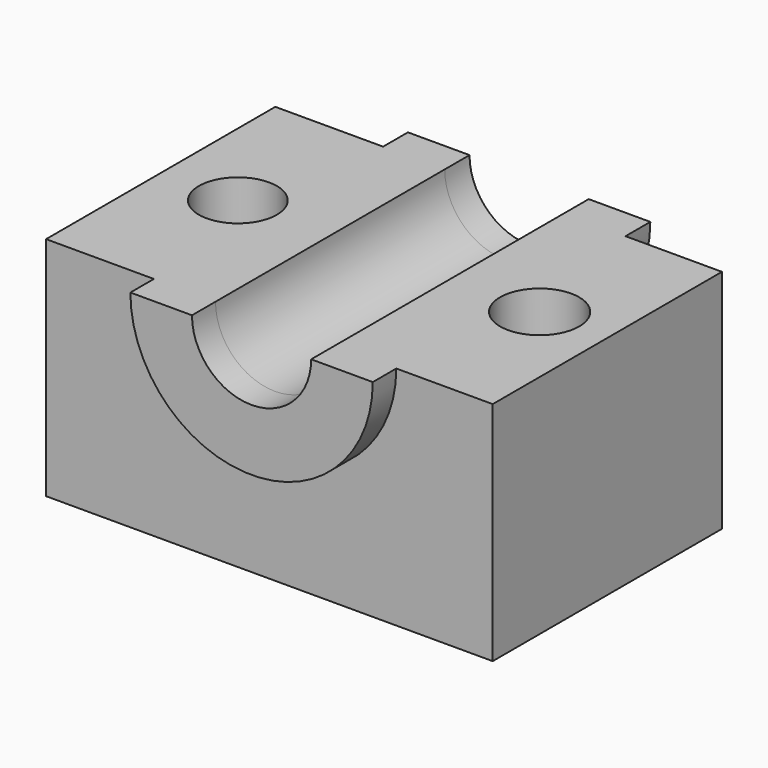
from build123d import *

# Parameters (mm, degrees)
F9_W      = 43.2008653879
F9_H      = 75.3829777241
F9_R      = 14.3386602655
F2_DEPTH  = 155.629181994
F3_W      = 128.537401557
F3_H      = 101.5209108591
F4_DEPTH  = 124.3528658524
F5_W      = 48.3558294363
F5_H      = 128.537401557
F11_DEPTH = 101.5219108591
F6_DEPTH  = 141.7193876038
F7_R      = 17.7458538463
F7_R_2    = 17.4915066441
F8_DEPTH  = 101.5219108591


with BuildPart() as f0:
    # F9 (on Top) → F0 (revolve)
    with BuildSketch(Plane.XY):
        Polygon((-27.6412069798, 37.691488862), (-27.6412069798, -37.691488862), (-27.6412069798, -78.1085044146), (0, -78.1085044146), (0, 77.5196775794), (-27.6412069798, 77.5196775794), align=None)
        with Locations((-49.2416396737, 0)):
            Rectangle(F9_W, F9_H)
        with Locations((-49.2416396737, 0)):
            Circle(F9_R, mode=Mode.SUBTRACT)
    revolve(axis=Axis((26.7316251993, -0.5888938904, 0), (0, -1, 0)))

    # F1 (on face) → F2 (cut, through all)
    with BuildSketch(Plane.XZ.offset(78.1085044146)):
        with BuildLine():
            ThreePointArc((0, 0), (26.7316251993, 26.7316251993), (53.4632503986, 0))
            Line((53.4632503986, 0), (81.1044573784, 0))
            ThreePointArc((81.1044573784, 0), (26.7316251993, 54.3728321791), (-27.6412069798, 0))
            Line((-27.6412069798, 0), (0, 0))
        make_face()
        with BuildLine():
            ThreePointArc((-27.6412069798, 0), (26.7316251993, 54.3728321791), (81.1044573784, 0))
            Line((81.1044573784, 0), (155.7151675224, 0))
            Line((155.7151675224, 0), (155.7151675224, 112.1997013688))
            Line((155.7151675224, 112.1997013688), (-91.2333577871, 112.1997013688))
            Line((-91.2333577871, 112.1997013688), (-91.2333577871, 0))
            Line((-91.2333577871, 0), (-27.6412069798, 0))
        make_face()
    extrude(amount=-F2_DEPTH, mode=Mode.SUBTRACT)

    # F3 (on Right) → F4 (join, symmetric)
    with BuildSketch(Plane.YZ):
        with Locations((-0.6588175893, -50.7604554296)):
            Rectangle(F3_W, F3_H)
    extrude(amount=F4_DEPTH, both=True)

    # F5 (on face) → F11 (cut, through all)
    with BuildSketch(Plane.XY):
        with Locations((-100.1749511342, -0.6588175893)):
            Rectangle(F5_W, F5_H)
    extrude(amount=-F11_DEPTH, mode=Mode.SUBTRACT)

    # F6 (cut, through all): a face of the model
    f6_faces = [f0.faces().sort_by_distance(p)[0] for p in [
        (26.7316251993, 63.6098831892, -11.3452540996),
    ]]
    extrude(f6_faces, amount=-F6_DEPTH, mode=Mode.SUBTRACT)

    # F7 (on face) → F8 (cut, through all)
    with BuildSketch(Plane.XY):
        with Locations((93.4647321701, 0)):
            Circle(F7_R)
        with Locations((-41.9096574187, 0)):
            Circle(F7_R_2)
    extrude(amount=-F8_DEPTH, mode=Mode.SUBTRACT)


solid = f0.part
